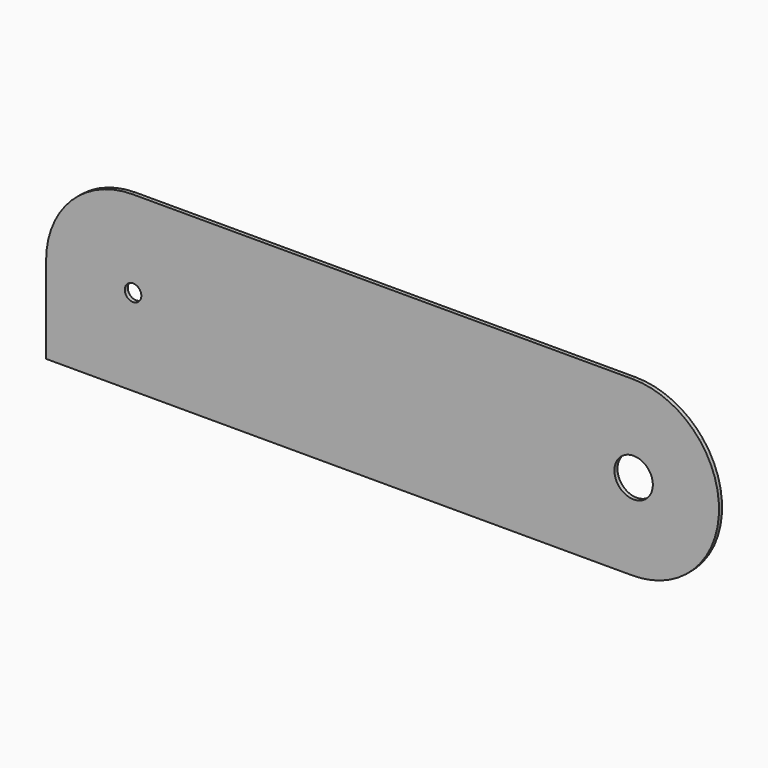
from build123d import *

# Parameters (mm, degrees)
F0_W      = 165
F0_H      = 45
F0_R      = 12.5
F1_DEPTH  = 1
F3_DEPTH  = 1
F4_DEPTH  = 25
F5_DEPTH  = 25
F8_DEPTH  = 1
F9_W      = 35.9933748841
F9_H      = 31.3726086169
F9_W_2    = 33.6829945445
F9_H_2    = 28.8190245628
F10_DEPTH = 1
F11_R     = 4.1249872097
F12_DEPTH = 25
F13_R     = 2.1502393586
F14_DEPTH = 25
F15_R     = 5
F16_DEPTH = 25


with BuildPart() as f1:
    # F0 (on Front) → F1 (new body)
    with BuildSketch(Plane.XZ):
        Rectangle(F0_W, F0_H)
        with Locations((-65, 0)):
            Circle(F0_R, mode=Mode.SUBTRACT)
        with Locations((65, 0)):
            Circle(F0_R, mode=Mode.SUBTRACT)
    extrude(amount=F1_DEPTH)

    # F2 (on face) → F3 (join)
    with BuildSketch(Plane.XZ.offset(1)):
        with BuildLine():
            Line((68.3925151825, -19.0988145769), (65, -22.5))
            ThreePointArc((65, -22.5), (87.5, 0), (65, 22.5))
            Line((65, 22.5), (71.474224329, 16.2770561874))
            Line((71.474224329, 16.2770561874), (77.4062722921, 9.1145541519))
            Line((77.4062722921, 9.1145541519), (80.3926512599, 2.1407562308))
            Line((80.3926512599, 2.1407562308), (80.3926512599, -5.2317115478))
            Line((80.3926512599, -5.2317115478), (78.3914923668, -12.1520543471))
            Line((78.3914923668, -12.1520543471), (74.6632069349, -14.4081749022))
            Line((74.6632069349, -14.4081749022), (68.3925151825, -19.0988145769))
        make_face()
        with BuildLine():
            Line((-65, 14.9617949501), (-65, 22.5))
            ThreePointArc((-65, 22.5), (-87.5, 0), (-65, -22.5))
            Line((-65, -22.5), (-67.4760043621, -15.6979020685))
            Line((-67.4760043621, -15.6979020685), (-72.8440880775, -12.9142012447))
            Line((-72.8440880775, -12.9142012447), (-76.5851810575, -7.8018400818))
            Line((-76.5851810575, -7.8018400818), (-79.5639529824, 0))
            Line((-79.5639529824, 0), (-79.5639529824, 6.4657721668))
            Line((-79.5639529824, 6.4657721668), (-75.4495188594, 11.7608513683))
            Line((-75.4495188594, 11.7608513683), (-65, 14.9617949501))
        make_face()
    extrude(amount=-F3_DEPTH)

    # F2 (on face) → F4 (cut)
    with BuildSketch(Plane.XZ.offset(1)):
        with BuildLine():
            Line((-82.5, 22.5), (-82.5, 14.1421356237))
            ThreePointArc((-82.5, 14.1421356237), (-74.6966991411, 20.3033008589), (-65, 22.5))
            Line((-65, 22.5), (-82.5, 22.5))
        make_face()
    extrude(amount=-F4_DEPTH, mode=Mode.SUBTRACT)

    # F2 (on face) → F5 (cut)
    with BuildSketch(Plane.XZ.offset(1)):
        with BuildLine():
            ThreePointArc((82.5, -14.1421356237), (74.6966991411, -20.3033008589), (65, -22.5))
            Line((65, -22.5), (82.5, -22.5))
            Line((82.5, -22.5), (82.5, -14.1421356237))
        make_face()
        with BuildLine():
            ThreePointArc((65, 22.5), (74.6966991411, 20.3033008589), (82.5, 14.1421356237))
            Line((82.5, 14.1421356237), (82.5, 22.5))
            Line((82.5, 22.5), (65, 22.5))
        make_face()
        with BuildLine():
            Line((-82.5, -22.5), (-65, -22.5))
            ThreePointArc((-65, -22.5), (-74.6966991411, -20.3033008589), (-82.5, -14.1421356237))
            Line((-82.5, -14.1421356237), (-82.5, -22.5))
        make_face()
    extrude(amount=-F5_DEPTH, mode=Mode.SUBTRACT)

    # F7 (on face) → F8 (join)
    with BuildSketch(Plane.XZ.offset(1)):
        Polygon((-81.9395110011, 0), (-87.5, 0), (-87.5, -22.5), (-65, -22.5), (-65, -18.5897927731), (-73.3228996396, -16.0001199692), (-80.1934376359, -9.6208481118), align=None)
    extrude(amount=-F8_DEPTH)

    # F9 (on face) → F10 (join)
    with BuildSketch(Plane.XZ.offset(1)):
        with Locations((-60.8671866357, 0.5391770974)):
            Rectangle(F9_W, F9_H)
        with Locations((63.7112520635, 0.1135794446)):
            Rectangle(F9_W_2, F9_H_2)
    extrude(amount=-F10_DEPTH)

    # F11 (on face) → F12 (cut)
    with BuildSketch(Plane.XZ.offset(1)):
        with Locations((65.292224288, 0)):
            Circle(F11_R)
    extrude(amount=-F12_DEPTH, mode=Mode.SUBTRACT)

    # F13 (on face) → F14 (cut)
    with BuildSketch(Plane.XZ.offset(1)):
        with Locations((-64.8811534047, 0)):
            Circle(F13_R)
    extrude(amount=-F14_DEPTH, mode=Mode.SUBTRACT)

    # F15 (on face) → F16 (cut)
    with BuildSketch(Plane(origin=(0, 0, 0), x_dir=(-1, 0, 0), z_dir=(0, 1, 0))):
        with Locations((-65.292224288, 0)):
            Circle(F15_R)
    extrude(amount=-F16_DEPTH, mode=Mode.SUBTRACT)


solid = f1.part
